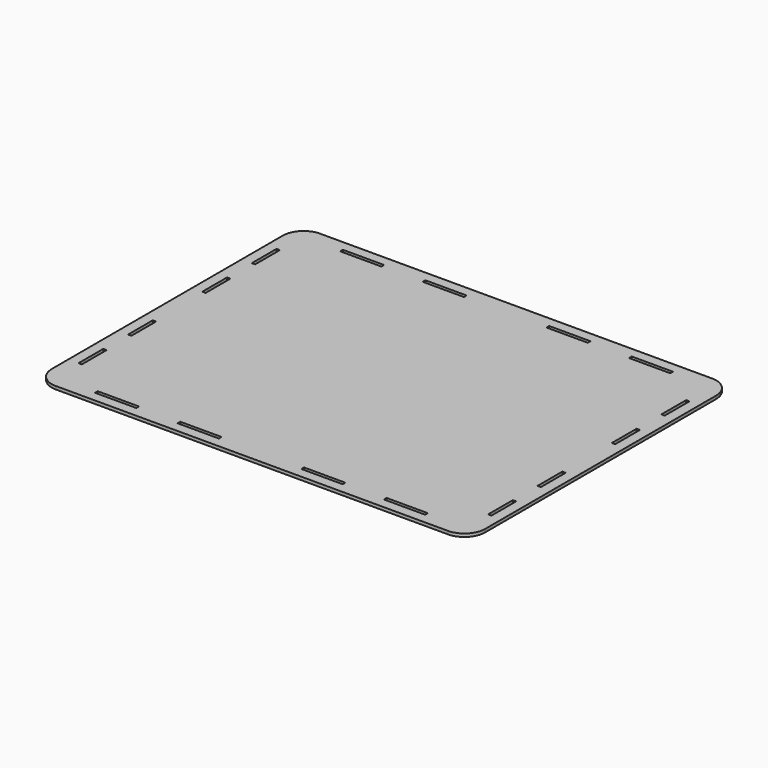
from build123d import *

# Parameters (mm, degrees)
F1_DEPTH = 3
F2_W     = 40
F2_H     = 3.25
F2_W_2   = 3.25
F2_H_2   = 30
F3_DEPTH = 3


with BuildPart() as f1:
    # F0 (on Top) → F1 (new body)
    with BuildSketch(Plane.XY):
        with BuildLine():
            Line((190, 160), (-190, 160))
            ThreePointArc((-190, 160), (-204.142136, 154.142136), (-210, 140))
            Line((-210, 140), (-210, -140))
            ThreePointArc((-210, -140), (-204.142136, -154.142136), (-190, -160))
            Line((-190, -160), (190, -160))
            ThreePointArc((190, -160), (204.142136, -154.142136), (210, -140))
            Line((210, -140), (210, 140))
            ThreePointArc((210, 140), (204.142136, 154.142136), (190, 160))
        make_face()
    extrude(amount=F1_DEPTH)

    # F2 (on face) → F3 (cut)
    with BuildSketch(Plane.XY.offset(3)):
        with Locations((-140, 148.5)):
            Rectangle(F2_W, F2_H)
        with Locations((-60, 148.5)):
            Rectangle(F2_W, F2_H)
        with Locations((60, 148.5)):
            Rectangle(F2_W, F2_H)
        with Locations((140, 148.5)):
            Rectangle(F2_W, F2_H)
        with Locations((198.5, 105)):
            Rectangle(F2_W_2, F2_H_2)
        with Locations((198.5, 45)):
            Rectangle(F2_W_2, F2_H_2)
        with Locations((198.5, -45)):
            Rectangle(F2_W_2, F2_H_2)
        with Locations((-198.5, 105)):
            Rectangle(F2_W_2, F2_H_2)
        with Locations((-198.5, 45)):
            Rectangle(F2_W_2, F2_H_2)
        with Locations((-198.5, -45)):
            Rectangle(F2_W_2, F2_H_2)
        with Locations((-198.5, -105)):
            Rectangle(F2_W_2, F2_H_2)
        with Locations((-140, -148.5)):
            Rectangle(F2_W, F2_H)
        with Locations((-60, -148.5)):
            Rectangle(F2_W, F2_H)
        with Locations((60, -148.5)):
            Rectangle(F2_W, F2_H)
        with Locations((140, -148.5)):
            Rectangle(F2_W, F2_H)
        with Locations((198.5, -105)):
            Rectangle(F2_W_2, F2_H_2)
    extrude(amount=-F3_DEPTH, mode=Mode.SUBTRACT)


solid = f1.part
